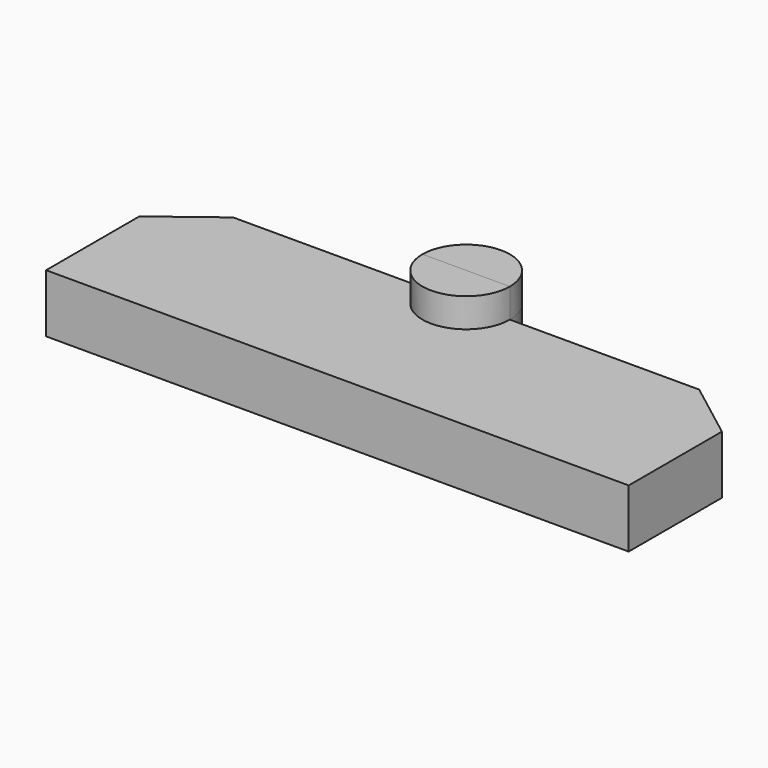
from build123d import *

# Parameters (mm, degrees)
F1_DEPTH = 25.4
F3_DEPTH = 38.1


with BuildPart() as f1:
    # F0 (on Top) → F1 (new body)
    with BuildSketch(Plane.XY):
        with BuildLine():
            ThreePointArc((146.05, 70.1765862209), (127, 89.2265862209), (107.95, 70.1765862209))
            Line((107.95, 70.1765862209), (146.05, 70.1765862209))
        make_face()
        with BuildLine():
            Line((146.05, 70.1765862209), (107.95, 70.1765862209))
            ThreePointArc((107.95, 70.1765862209), (127, 51.1265862209), (146.05, 70.1765862209))
        make_face()
        with BuildLine():
            Line((25.4, 70.1765862209), (0, 50.8))
            Line((0, 50.8), (0, 0))
            Line((0, 0), (254, 0))
            Line((254, 0), (254, 50.8))
            Line((254, 50.8), (228.6, 70.1765862209))
            Line((228.6, 70.1765862209), (146.05, 70.1765862209))
            ThreePointArc((146.05, 70.1765862209), (127, 51.1265862209), (107.95, 70.1765862209))
            Line((107.95, 70.1765862209), (25.4, 70.1765862209))
        make_face()
    extrude(amount=F1_DEPTH)

    # F2 (on face) + F0 (on Top) → F3 (join)
    with BuildSketch(Plane.XY):
        with BuildLine():
            ThreePointArc((107.95, 70.1765862209), (127, 51.1265862209), (146.05, 70.1765862209))
            Line((146.05, 70.1765862209), (107.95, 70.1765862209))
        make_face()
    with BuildSketch(Plane.XY):
        with BuildLine():
            ThreePointArc((146.05, 70.1765862209), (127, 89.2265862209), (107.95, 70.1765862209))
            Line((107.95, 70.1765862209), (146.05, 70.1765862209))
        make_face()
    extrude(amount=F3_DEPTH)


solid = f1.part
